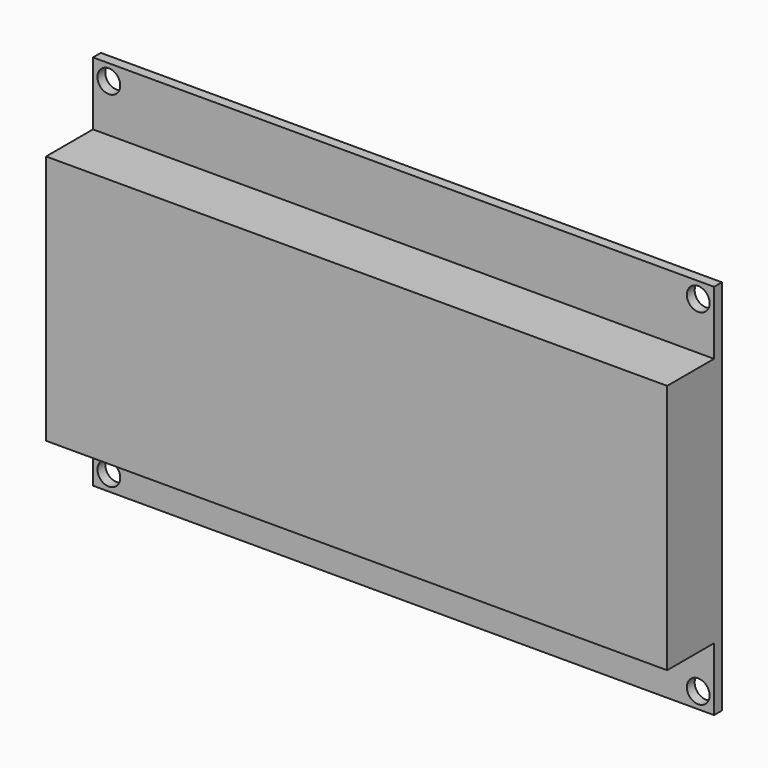
from build123d import *

# Parameters (mm, degrees)
F0_W     = 98
F0_H     = 59.5
F1_DEPTH = 1.55
F2_W     = 98
F2_H     = 39.5
F3_DEPTH = 9.25
F4_R     = 1.8
F5_DEPTH = 25


with BuildPart() as f1:
    # F0 (on Front) → F1 (new body)
    with BuildSketch(Plane.XZ):
        Rectangle(F0_W, F0_H)
    extrude(amount=F1_DEPTH)

    # F2 (on face) → F3 (join)
    with BuildSketch(Plane.XZ.offset(1.55)):
        Rectangle(F2_W, F2_H)
    extrude(amount=F3_DEPTH)

    # F4 (on face) → F5 (cut)
    with BuildSketch(Plane.XZ.offset(1.55)):
        with Locations((-46.5, 27.25)):
            Circle(F4_R)
        with Locations((-46.5, -27.25)):
            Circle(F4_R)
        with Locations((46.5, -27.25)):
            Circle(F4_R)
        with Locations((46.5, 27.25)):
            Circle(F4_R)
    extrude(amount=-F5_DEPTH, mode=Mode.SUBTRACT)


solid = f1.part
